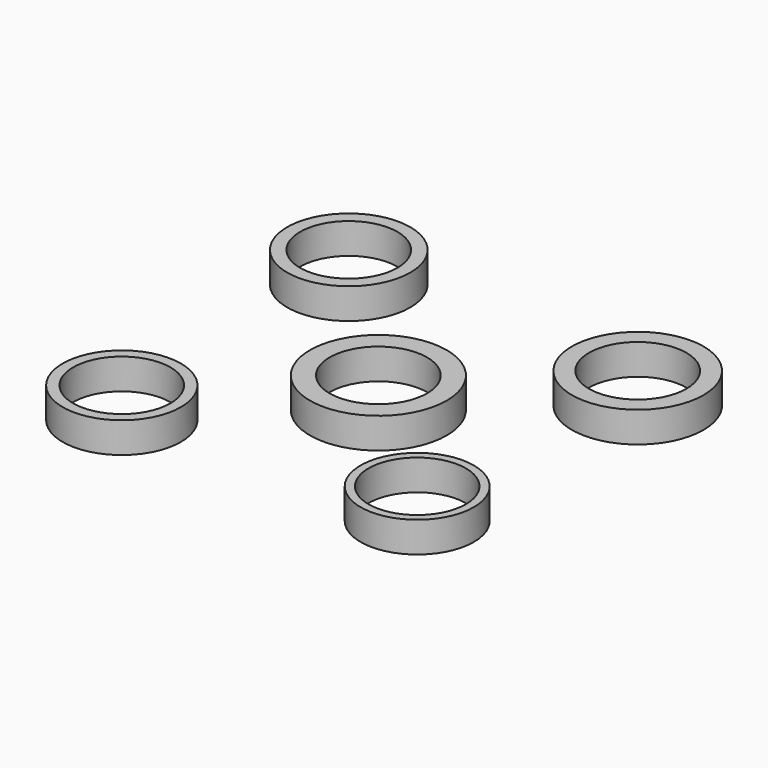
from build123d import *

# Parameters (mm, degrees)
F0_R     = 14.057888
F0_R_2   = 11.115
F0_R_3   = 15.036928
F0_R_4   = 11.12
F0_R_5   = 15.615733
F0_R_6   = 11.125
F0_R_7   = 13.492788
F0_R_8   = 11.11
F0_R_9   = 12.921682
F0_R_10  = 11.105
F1_DEPTH = 7


with BuildPart() as f1:
    # F0 (on Top) → F1 (new body)
    with BuildSketch(Plane.XY):
        with Locations((-34.38776, 34.540586)):
            Circle(F0_R)
        with Locations((-34.38776, 34.540586)):
            Circle(F0_R_2, mode=Mode.SUBTRACT)
        with Locations((34.999091, 30.26122)):
            Circle(F0_R_3)
        with Locations((34.999091, 30.26122)):
            Circle(F0_R_4, mode=Mode.SUBTRACT)
        Circle(F0_R_5)
        Circle(F0_R_6, mode=Mode.SUBTRACT)
        with Locations((-33.312794, -31.575643)):
            Circle(F0_R_7)
        with Locations((-33.312794, -31.575643)):
            Circle(F0_R_8, mode=Mode.SUBTRACT)
        with Locations((32.160033, -29.114258)):
            Circle(F0_R_9)
        with Locations((32.160033, -29.114258)):
            Circle(F0_R_10, mode=Mode.SUBTRACT)
    extrude(amount=F1_DEPTH)


solid = f1.part
